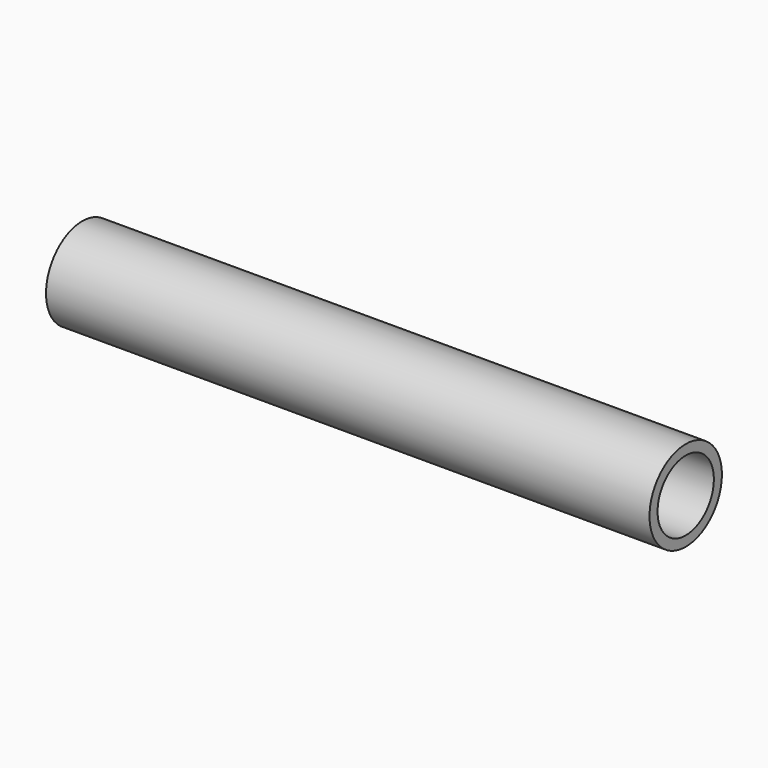
from build123d import *

# Parameters (mm, degrees)
F0_R     = 22.5
F1_DEPTH = 300
F2_T     = -5


with BuildPart() as f1:
    # F0 (on Right) → F1 (new body)
    with BuildSketch(Plane.YZ):
        Circle(F0_R)
    extrude(amount=-F1_DEPTH)

    # F2
    f2_openings = [f1.faces().sort_by_distance(p)[0] for p in [
        (0, 0, 0),
    ]]
    offset(amount=F2_T, openings=f2_openings)


solid = f1.part
